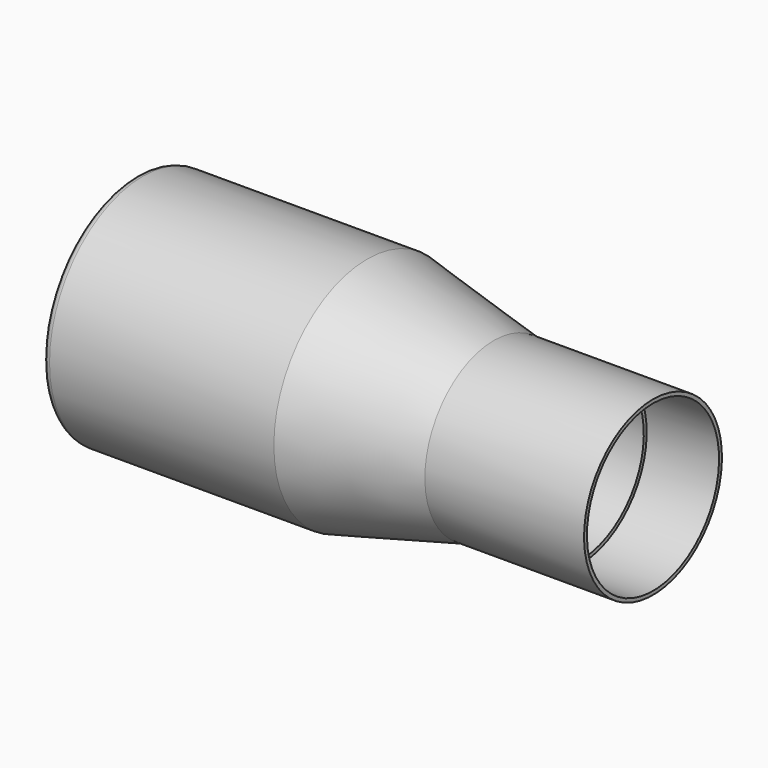
from build123d import *

# Parameters (mm, degrees)
F0_W = 31
F0_H = 1


with BuildPart() as f1:
    # F0 (on Front) → F1 (revolve)
    with BuildSketch(Plane.XZ):
        with BuildLine():
            Line((-19.978428, 15.125), (-19.978428, 16.125))
            ThreePointArc((-19.978428, 16.125), (-20.685535, 15.832107), (-20.978428, 15.125))
            Line((-20.978428, 15.125), (-19.978428, 15.125))
        make_face()
        with Locations((-4.478428, 15.625)):
            Rectangle(F0_W, F0_H)
        Polygon((28.521572, 11.911925), (11.021572, 16.125), (11.021572, 15.125), (28.521572, 10.911925), align=None)
        Polygon((50.521572, 11.911925), (28.521572, 11.911925), (28.521572, 10.911925), (40.521572, 10.911925), (40.521572, 11.411925), (50.521572, 11.411925), align=None)
    revolve(axis=Axis((3.771572, 0, 0), (1, 0, 0)))


solid = f1.part
